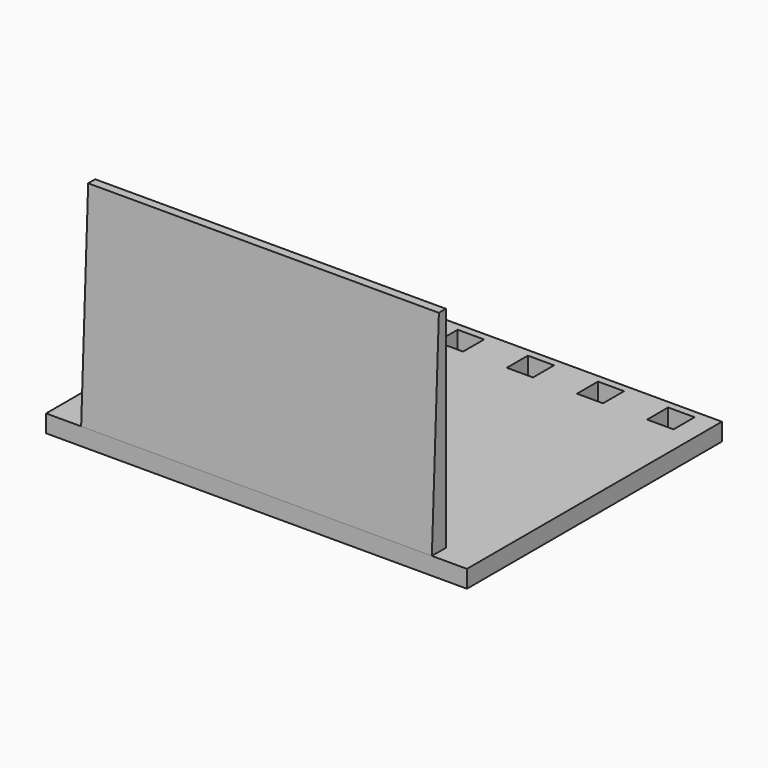
from build123d import *

# Parameters (mm, degrees)
F0_W      = 3.8989
F0_H      = 3.9624
F1_DEPTH  = 3.175
F3_DEPTH  = 38.1
F5_DEPTH  = 64.262
F7_DEPTH  = 63.5
F9_DEPTH  = 25.4
F10_W     = 76.2
F10_H     = 2.617364
F11_DEPTH = 25.4


with BuildPart() as f1:
    # F0 (on Top) → F1 (new body)
    with BuildSketch(Plane.XY):
        Polygon((38.1, 27.7876), (38.1, 31.75), (-34.2011, 31.75), (-34.2011, 27.7876), (-29.4386, 27.7876), (-21.5011, 27.7876), (-16.7386, 27.7876), (-8.6614, 27.7876), (-3.8989, 27.7876), (-3.884394, 27.7876), (4.0386, 27.7876), (8.789393, 27.7876), (8.8011, 27.7876), (16.7386, 27.7876), (21.459464, 27.7876), (21.5011, 27.7876), (29.4386, 27.7876), (34.2011, 27.7876), (34.226403, 27.7876), align=None)
        with Locations((-36.15055, 29.7688)):
            Rectangle(F0_W, F0_H)
        Polygon((38.1, -31.75), (38.1, 27.7876), (34.226403, 27.7876), (34.226403, 23.0251), (29.4386, 23.0251), (29.4386, 27.7876), (21.5011, 27.7876), (21.459464, 27.7876), (21.459464, 23.0251), (16.7386, 23.0251), (16.7386, 27.7876), (8.8011, 27.7876), (8.789393, 27.7876), (8.789393, 23.0251), (4.0386, 23.0251), (4.0386, 27.7876), (-3.884394, 27.7876), (-3.884394, 23.0251), (-8.6614, 23.0251), (-8.6614, 27.7876), (-16.7386, 27.7876), (-16.7386, 23.0251), (-21.5011, 23.0251), (-21.5011, 27.7876), (-29.4386, 27.7876), (-29.4386, 23.0251), (-34.2011, 23.0251), (-34.2011, 15.0876), (-34.2011, 10.3251), (-34.2011, 2.3876), (-34.2011, -2.3749), (-34.2011, -10.3124), (-34.2011, -15.0749), (-34.2011, -23.0124), (-34.2011, -27.7749), (-34.2011, -31.75), align=None)
        Polygon((-34.2011, 23.0251), (-34.2011, 27.7876), (-38.1, 27.7876), (-38.1, -31.75), (-34.2011, -31.75), (-34.2011, -27.7749), (-34.2011, -23.0124), (-34.2011, -15.0749), (-34.2011, -10.3124), (-34.2011, -2.3749), (-34.2011, 2.3876), (-34.2011, 10.3251), (-34.2011, 15.0876), align=None)
    extrude(amount=F1_DEPTH)

    # F2 (on face) → F3 (join)
    with BuildSketch(Plane.XY.offset(3.175)):
        Polygon((-31.75, -28.575), (-31.75, -31.75), (31.75, -31.75), (31.75, -28.575), (31.75, -25.4), (-31.75, -25.4), align=None)
    extrude(amount=F3_DEPTH)

    # F4 (on face) → F5 (cut)
    with BuildSketch(Plane(origin=(-31.75, 0, 0), x_dir=(0, -1, 0), z_dir=(-1, 0, 0))):
        Polygon((31.75, 41.275), (28.575, 41.275), (31.75, 3.175), align=None)
    extrude(amount=-F5_DEPTH, mode=Mode.SUBTRACT)

    # F6 (on face) → F7 (cut)
    with BuildSketch(Plane.YZ.offset(31.75)):
        Polygon((-31.75, 3.175), (-28.575, 3.175), (-26.9875, 41.275), (-28.575, 41.275), align=None)
    extrude(amount=-F7_DEPTH, mode=Mode.SUBTRACT)

    # F8 (on face) → F9 (cut)
    with BuildSketch(Plane.XY.offset(3.175)):
        Polygon((38.1, -28.575), (-31.75, -28.575), (-38.1, -28.575), (-38.1, -31.75), (38.1, -31.75), align=None)
    extrude(amount=-F9_DEPTH, mode=Mode.SUBTRACT)

    # F10 (on face) → F11 (cut)
    with BuildSketch(Plane.XY.offset(3.175)):
        with Locations((0, 30.441318)):
            Rectangle(F10_W, F10_H)
    extrude(amount=-F11_DEPTH, mode=Mode.SUBTRACT)


solid = f1.part
